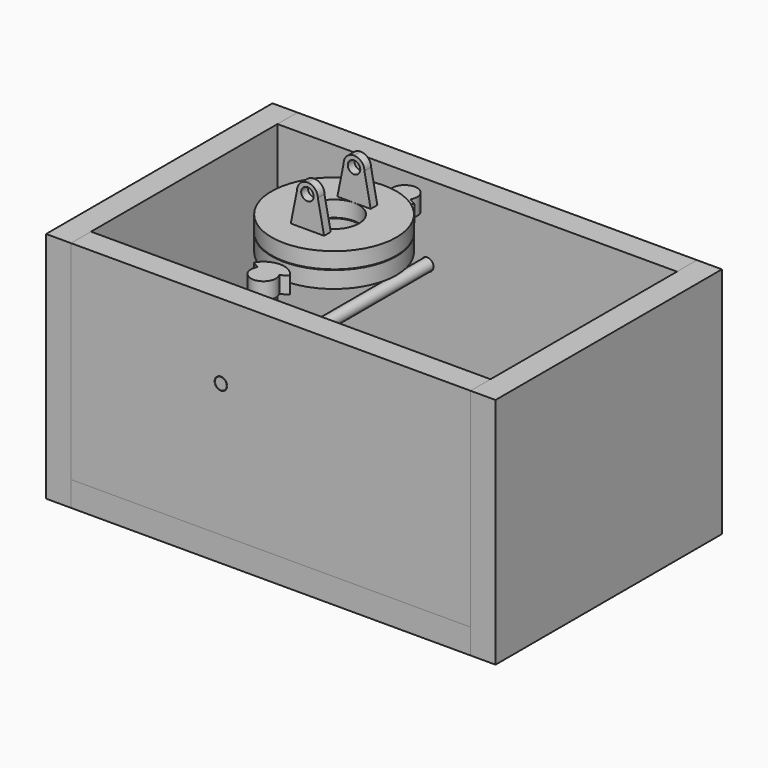
from build123d import *

# Parameters (mm, degrees)
F1_DEPTH  = 177.8
F2_DEPTH  = 177.8
F3_DEPTH  = 177.8
F4_DEPTH  = 177.8
F5_W      = 342.9
F5_H      = 215.9
F6_DEPTH  = 19.05
F7_R      = 12.7
F8_DEPTH  = 330.2
F10_R     = 47.625
F10_R_2   = 19.05
F11_DEPTH = 12.7
F12_R     = 4.7625
F13_DEPTH = 206.375
F14_R     = 4.7625
F15_DEPTH = 25.4
F16_R     = 4.5085
F17_DEPTH = 215.9
F19_DEPTH = 12.7
F21_START = 0.508
F21_DEPTH = 12.192
F22_W     = 25.4
F22_H     = 6.35
F23_DEPTH = 31.75
F24_R     = 4.7625
F25_DEPTH = 127


with BuildPart() as f1:
    # F0 (on Top) → F1 (new body)
    with BuildSketch(Plane.XY):
        Polygon((-152.4, 0), (-152.4, 88.9), (-152.4, 107.95), (-171.45, 107.95), (-171.45, 0), (-171.45, -107.95), (-152.4, -107.95), (-152.4, -88.9), align=None)
    extrude(amount=F1_DEPTH)


with BuildPart() as f2:
    # F0 (on Top) → F2 (new body)
    with BuildSketch(Plane.XY):
        Polygon((152.4, 107.95), (152.4, 88.9), (152.4, 0), (152.4, -88.9), (152.4, -107.95), (171.45, -107.95), (171.45, 107.95), align=None)
    extrude(amount=F2_DEPTH)


with BuildPart() as f3:
    # F0 (on Top) → F3 (new body)
    with BuildSketch(Plane.XY):
        Polygon((-152.4, 107.95), (-152.4, 88.9), (0, 88.9), (152.4, 88.9), (152.4, 107.95), align=None)
    extrude(amount=F3_DEPTH)

    # F14 (on face) → F15 (cut)
    with BuildSketch(Plane(origin=(0, 107.95, 0), x_dir=(-1, 0, 0), z_dir=(0, 1, 0))):
        with Locations((38.1, 120.65)):
            Circle(F14_R)
    extrude(amount=-F15_DEPTH, mode=Mode.SUBTRACT)


with BuildPart() as f4:
    # F0 (on Top) → F4 (new body)
    with BuildSketch(Plane.XY):
        Polygon((152.4, -88.9), (0, -88.9), (-152.4, -88.9), (-152.4, -107.95), (152.4, -107.95), align=None)
    extrude(amount=F4_DEPTH)

    # F12 (on face) → F13 (cut)
    with BuildSketch(Plane.XZ.offset(107.95)):
        with Locations((-38.1, 120.65)):
            Circle(F12_R)
    extrude(amount=-F13_DEPTH, mode=Mode.SUBTRACT)


with BuildPart() as f6:
    # F5 (on Top) → F6 (new body)
    with BuildSketch(Plane.XY):
        Rectangle(F5_W, F5_H)
    extrude(amount=F6_DEPTH)


with BuildPart() as f8_tool:
    # F7 (on face) → F8 (new body)
    with BuildSketch(Plane(origin=(-171.45, 0, 0), x_dir=(0, -1, 0), z_dir=(-1, 0, 0))):
        with Locations((0, 98.425)):
            Circle(F7_R)
    extrude(amount=-F8_DEPTH)


with BuildPart() as f1_1:
    add(f1.part)

    # F8: cut by f8_tool
    add(f8_tool.part, mode=Mode.SUBTRACT)


with BuildPart() as f2_1:
    add(f2.part)

    # F8: cut by f8_tool
    add(f8_tool.part, mode=Mode.SUBTRACT)


with BuildPart() as f11:
    # F10 (on face) → F11 (new body)
    with BuildSketch(Plane.XY.offset(177.8)):
        with Locations((-38.1, 0)):
            Circle(F10_R)
        with Locations((-38.1, 0)):
            Circle(F10_R_2, mode=Mode.SUBTRACT)
    extrude(amount=-F11_DEPTH)


with BuildPart() as f17:
    # F16 (on face) → F17 (new body)
    with BuildSketch(Plane.XZ.offset(107.95)):
        with Locations((-38.1, 120.65)):
            Circle(F16_R)
    extrude(amount=-F17_DEPTH)


with BuildPart() as f19:
    # F18 (on face) → F19 (new body)
    with BuildSketch(Plane.XY.offset(177.8)):
        with BuildLine():
            Line((-46.348891971, 62.5475), (-51.8481532851, 59.3725))
            ThreePointArc((-51.8481532851, 59.3725), (-38.1, 51.435), (-24.3518467149, 59.3725))
            Line((-24.3518467149, 59.3725), (-29.851108029, 62.5475))
            ThreePointArc((-29.851108029, 62.5475), (-38.1, 76.835), (-46.348891971, 62.5475))
        make_face()
    extrude(amount=-F19_DEPTH)


with BuildPart() as f20_1:
    # F20: instance of F19
    add(f19.part.mirror(Plane.XZ))


with BuildPart() as f21:
    # F10 (on face) → F21 (new body)
    with BuildSketch(Plane.XY.offset(177.8).offset(F21_START)):
        with Locations((-38.1, 0)):
            Circle(F10_R)
        with Locations((-38.1, 0)):
            Circle(F10_R_2, mode=Mode.SUBTRACT)
    extrude(amount=F21_DEPTH)

    # F22 (on face) → F23 (join)
    with BuildSketch(Plane.XY.offset(190.5)):
        with Locations((-38.1, 22.225)):
            Rectangle(F22_W, F22_H)
        with Locations((-38.1, -22.225)):
            Rectangle(F22_W, F22_H)
    extrude(amount=F23_DEPTH)

    # F24 (on face) → F25 (cut)
    with BuildSketch(Plane.XZ.offset(25.4)):
        with BuildLine():
            ThreePointArc((-38.1, 222.25), (-32.4873399243, 219.9251600757), (-30.1625, 214.3125))
            Line((-30.1625, 214.3125), (-25.4, 190.5))
            Line((-25.4, 190.5), (-25.4, 222.25))
            Line((-25.4, 222.25), (-38.1, 222.25))
        make_face()
        with Locations((-38.1, 214.3125)):
            Circle(F24_R)
        with BuildLine():
            ThreePointArc((-46.0375, 214.3125), (-43.7126600757, 219.9251600757), (-38.1, 222.25))
            Line((-38.1, 222.25), (-50.8, 222.25))
            Line((-50.8, 222.25), (-50.8, 190.5))
            Line((-50.8, 190.5), (-46.0375, 214.3125))
        make_face()
    extrude(amount=-F25_DEPTH, mode=Mode.SUBTRACT)


solid = Compound([f3.part, f4.part, f6.part, f1_1.part, f2_1.part, f11.part, f17.part, f19.part, f20_1.part, f21.part])
